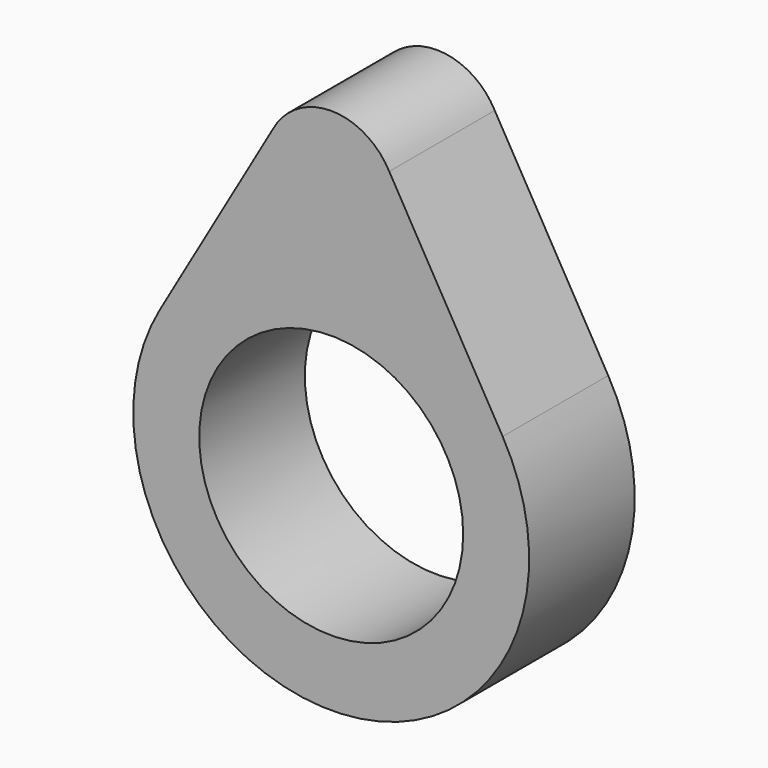
from build123d import *

# Parameters (mm, degrees)
F0_R     = 12.7
F1_DEPTH = 6.35


with BuildPart() as f1:
    # F0 (on Front) → F1 (new body, symmetric)
    with BuildSketch(Plane.XZ):
        with BuildLine():
            Line((16.4968415309, 9.5266321177), (5.5801919852, 28.4305044808))
            ThreePointArc((5.5801919852, 28.4305044808), (0, 31.75), (-5.5801919852, 28.4305044808))
            Line((-5.5801919852, 28.4305044808), (-16.4968415309, 9.5266321177))
            ThreePointArc((-16.4968415309, 9.5266321177), (0, -19.05), (16.4968415309, 9.5266321177))
        make_face()
        Circle(F0_R, mode=Mode.SUBTRACT)
    extrude(amount=F1_DEPTH, both=True)


solid = f1.part
